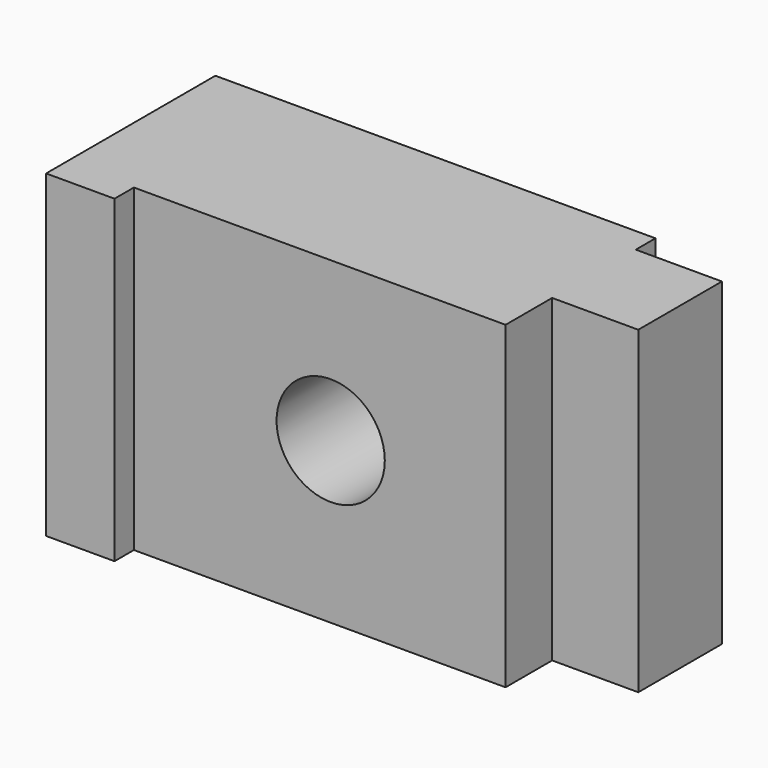
from build123d import *

# Parameters (mm, degrees)
F0_W     = 8.18
F0_H     = 38.16
F1_DEPTH = 25.3
F0_W_2   = 44.44
F0_R     = 6.47
F2_DEPTH = 22.4
F3_START = 2.94
F0_W_3   = 10.3
F3_DEPTH = 12.5


with BuildPart() as f1:
    # F0 (on Front) → F1 (new body)
    with BuildSketch(Plane.XZ):
        with Locations((4.09, 19.08)):
            Rectangle(F0_W, F0_H)
    extrude(amount=F1_DEPTH)

    # F0 (on Front) → F2 (join)
    with BuildSketch(Plane.XZ):
        with Locations((30.4, 19.08)):
            Rectangle(F0_W_2, F0_H)
        with Locations((31.71, 19.17)):
            Circle(F0_R, mode=Mode.SUBTRACT)
    extrude(amount=F2_DEPTH)

    # F0 (on Front) → F3 (join)
    with BuildSketch(Plane.XZ.offset(F3_START)):
        with Locations((57.77, 19.08)):
            Rectangle(F0_W_3, F0_H)
    extrude(amount=F3_DEPTH)


solid = f1.part
